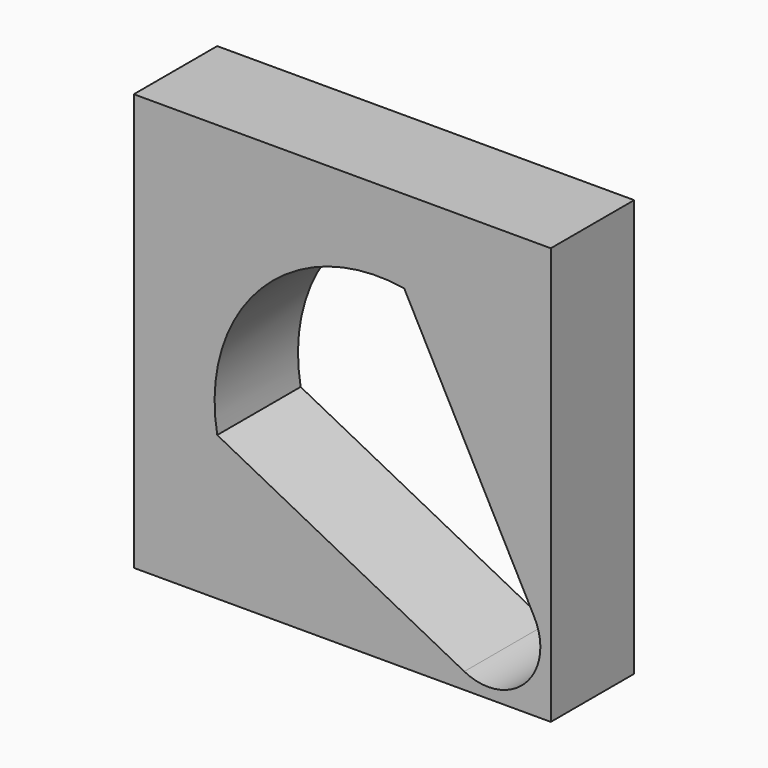
from build123d import *

# Parameters (mm, degrees)
F0_W     = 101.6
F0_H     = 101.6
F1_DEPTH = 25.4


with BuildPart() as f1:
    # F0 (on Front) → F1 (new body)
    with BuildSketch(Plane.XZ):
        Rectangle(F0_W, F0_H)
        with BuildLine():
            ThreePointArc((46.7971702756, -29.64256777), (44.5726464358, -44.5077485561), (29.7239297478, -46.839640243))
            Line((29.7239297478, -46.839640243), (-30.4706415798, -15.6950523395))
            ThreePointArc((-30.4706415798, -15.6950523395), (-25.4936653584, 11.7890823065), (-3.6436724399, 29.1880983423))
            ThreePointArc((-3.6436724399, 29.1880983423), (5.6378052837, 31.0063481789), (15.0859481683, 30.5768633308))
            Line((15.0859481683, 30.5768633308), (16.8662774091, 27.1960281902))
            Line((16.8662774091, 27.1960281902), (46.7971702756, -29.64256777))
        make_face(mode=Mode.SUBTRACT)
    extrude(amount=F1_DEPTH)


solid = f1.part
